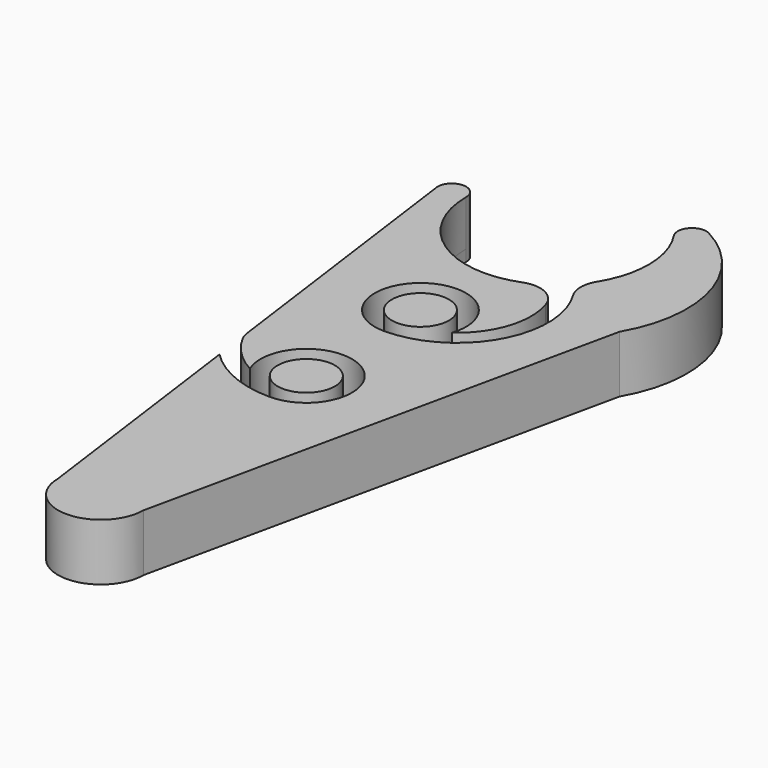
from build123d import *

# Parameters (mm, degrees)
F2_DEPTH = 2
F0_R     = 5
F3_DEPTH = 8


with BuildPart() as f2:
    # F1 (on Top) → F2 (new body)
    with BuildSketch(Plane.XY):
        with BuildLine():
            ThreePointArc((13.33529, 8.841382), (4.617107, -15.319345), (-16, 0))
            ThreePointArc((-16, 0), (-18.5, 2.5), (-21, 0))
            Line((-21, 0), (-20.910506, -0.662918))
            Line((-20.910506, -0.662918), (-7.5, -100))
            ThreePointArc((-7.5, -100), (0, -107.5), (7.5, -100))
            Line((7.5, -100), (25.305924, -18.025038))
            ThreePointArc((25.305924, -18.025038), (27.420627, -0.945552), (16.591949, 12.430567))
            ThreePointArc((16.591949, 12.430567), (13.567479, 11.902768), (13.33529, 8.841382))
        make_face()
        with BuildLine():
            Line((-20.910506, -0.662918), (-21, 0))
            ThreePointArc((-21, 0), (-20.977525, -0.334466), (-20.910506, -0.662918))
        make_face()
    extrude(amount=-F2_DEPTH)

    # F0 (on Top) → F3 (join)
    with BuildSketch(Plane.XY):
        with BuildLine():
            Line((-13.244945, -57.444852), (-7.5, -100))
            ThreePointArc((-7.5, -100), (0, -107.5), (7.5, -100))
            Line((7.5, -100), (25.305924, -18.025038))
            ThreePointArc((25.305924, -18.025038), (27.420627, -0.945552), (16.591949, 12.430567))
            ThreePointArc((16.591949, 12.430567), (13.567479, 11.902768), (13.33529, 8.841382))
            ThreePointArc((13.33529, 8.841382), (15.997668, 0.273165), (13.629367, -8.380952))
            ThreePointArc((13.629367, -8.380952), (12.888544, -11), (13.629367, -13.619048))
            ThreePointArc((13.629367, -13.619048), (13.965945, -29.807201), (0, -38))
            ThreePointArc((0, -38), (-4.66369, -23.5), (7.578495, -32.5625))
            ThreePointArc((7.578495, -32.5625), (12.340953, -26.08667), (12.384831, -18.048295))
            ThreePointArc((12.384831, -18.048295), (9.774911, -15.055695), (5.806807, -14.909091))
            ThreePointArc((5.806807, -14.909091), (-9.030257, -13.208121), (-16, 0))
            ThreePointArc((-16, 0), (-18.5, 2.5), (-21, 0))
            Line((-21, 0), (-14.226881, -50.171251))
            ThreePointArc((-14.226881, -50.171251), (-14.022272, -51.062223), (-13.658867, -51.90105))
            ThreePointArc((-13.658867, -51.90105), (-10.960762, -55.487227), (-7.351732, -58.154685))
            ThreePointArc((-7.351732, -58.154685), (4.402415, -48.320274), (0, -63))
            ThreePointArc((0, -63), (-7.181369, -61.554983), (-13.244945, -57.444852))
        make_face()
        with Locations((0, -30)):
            Circle(F0_R)
        with Locations((0, -55)):
            Circle(F0_R)
    extrude(amount=F3_DEPTH)


solid = f2.part
